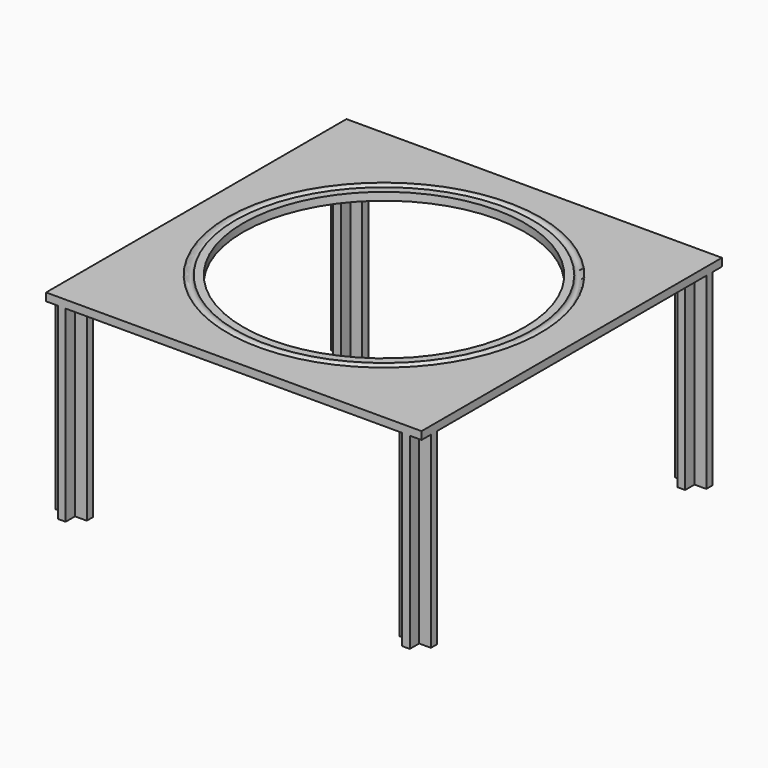
from build123d import *

# Parameters (mm, degrees)
F0_W     = 609.6
F0_H     = 609.6
F1_DEPTH = 6.35
F3_DEPTH = 304.8
F4_R     = 228.6
F8_DEPTH = 317.501


with BuildPart() as f1:
    # F0 (on Top) → F1 (new body, symmetric)
    with BuildSketch(Plane.XY):
        with Locations((304.8, 304.8)):
            Rectangle(F0_W, F0_H)
    extrude(amount=F1_DEPTH, both=True)

    # F2 (on face) → F3 (join)
    with BuildSketch(Plane(origin=(0, 0, -6.35), x_dir=(1, 0, 0), z_dir=(0, 0, -1))):
        Polygon((19.05, -19.05), (0, -19.05), (0, -31.75), (19.05, -31.75), (19.05, -50.8), (31.75, -50.8), (31.75, -31.75), (50.8, -31.75), (50.8, -19.05), (31.75, -19.05), (31.75, 0), (19.05, 0), align=None)
        Polygon((590.55, -50.8), (590.55, -31.75), (609.6, -31.75), (609.6, -19.05), (590.55, -19.05), (590.55, 0), (577.85, 0), (577.85, -19.05), (558.8, -19.05), (558.8, -31.75), (577.85, -31.75), (577.85, -50.8), align=None)
        Polygon((19.05, -590.55), (19.05, -609.6), (31.75, -609.6), (31.75, -590.55), (50.8, -590.55), (50.8, -577.85), (31.75, -577.85), (31.75, -558.8), (19.05, -558.8), (19.05, -577.85), (0, -577.85), (0, -590.55), align=None)
        Polygon((577.85, -609.6), (590.55, -609.6), (590.55, -590.55), (609.6, -590.55), (609.6, -577.85), (590.55, -577.85), (590.55, -558.8), (577.85, -558.8), (577.85, -577.85), (558.8, -577.85), (558.8, -590.55), (577.85, -590.55), align=None)
    extrude(amount=F3_DEPTH)

    # F6 (on offset) → F7 (revolve, cut)
    with BuildSketch(Plane.XZ.offset(-304.8)):
        with BuildLine():
            Line((63.5, 6.35), (50.8, 6.35))
            ThreePointArc((50.8, 6.35), (57.15, -0.1598234894), (63.5, 6.35))
        make_face()
    revolve(axis=Axis((304.8, 304.8, 0), (0, 0, -1)), mode=Mode.SUBTRACT)

    # F4 (on face) → F8 (cut, through all)
    with BuildSketch(Plane.XY.offset(6.35)):
        with Locations((304.8, 304.8)):
            Circle(F4_R)
    extrude(amount=-F8_DEPTH, mode=Mode.SUBTRACT)


solid = f1.part
